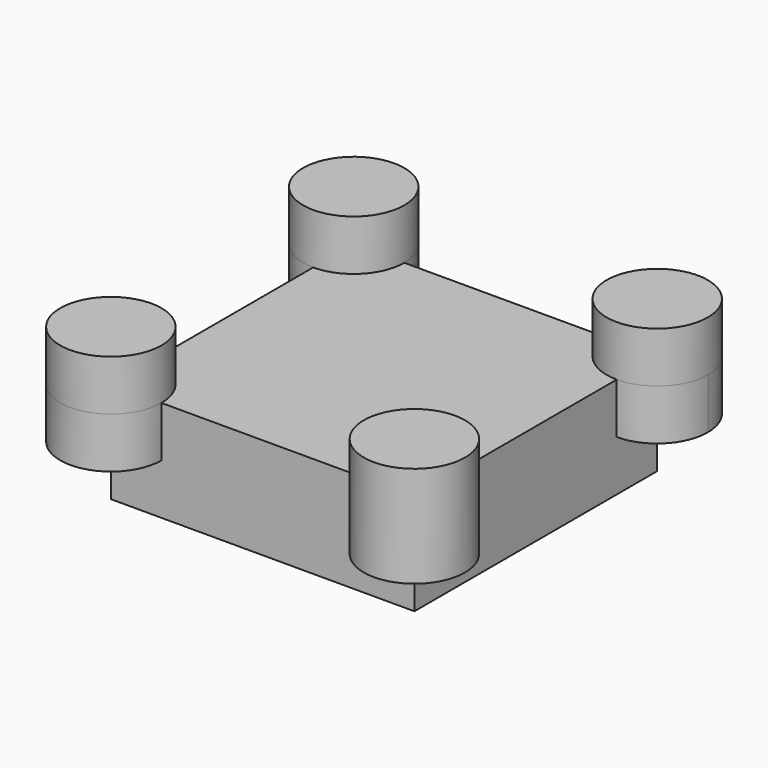
from build123d import *

# Parameters (mm, degrees)
F0_W     = 76.2
F0_H     = 76.2
F1_DEPTH = 25.4
F2_R     = 12.7
F3_DEPTH = 12.7


with BuildPart() as f1:
    # F0 (on Top) → F1 (new body)
    with BuildSketch(Plane.XY):
        Rectangle(F0_W, F0_H)
    extrude(amount=F1_DEPTH)

    # F2 (on face) → F3 (join, symmetric)
    with BuildSketch(Plane.XY.offset(25.4)):
        with Locations((-38.1, 38.1)):
            Circle(F2_R)
        with Locations((38.1, 38.1)):
            Circle(F2_R)
        with Locations((-38.1, -38.1)):
            Circle(F2_R)
        with Locations((38.1, -38.1)):
            Circle(F2_R)
    extrude(amount=F3_DEPTH, both=True)


solid = f1.part
